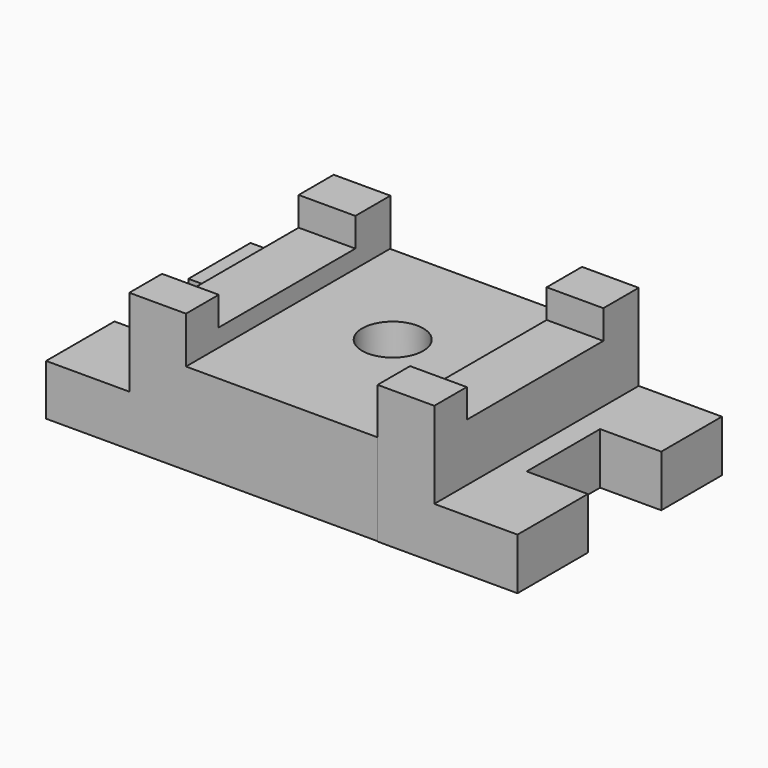
from build123d import *

# Parameters (mm, degrees)
F0_W      = 53.3400028944
F0_H      = 70.8285234869
F1_DEPTH  = 25.4
F2_R      = 8.4728642263
F3_DEPTH  = 41.402
F4_W      = 70.9742624313
F4_H      = 38.3290164173
F5_DEPTH  = 15.748
F6_W      = 70.9742605686
F6_H      = 38.3290164173
F7_DEPTH  = 15.748
F8_W      = 70.9742624313
F8_H      = 14.1365574673
F9_DEPTH  = 23.114
F10_W     = 70.9742605686
F10_H     = 14.3422139809
F11_DEPTH = 23.114
F12_W     = 16.9909100647
F12_H     = 25.4818284884
F13_DEPTH = 25.4
F14_W     = 15.8581200655
F14_H     = 25.6498372182
F15_DEPTH = 25.4
F16_W     = 47.4318256602
F16_H     = 7.9976115376
F17_DEPTH = 25.4
F18_W     = 47.4318237975
F18_H     = 7.9976115376
F19_DEPTH = 25.4


with BuildPart() as f1:
    # F0 (on Top) → F1 (new body)
    with BuildSketch(Plane.XY):
        with Locations((-5.1008202136, -9.9101644009)):
            Rectangle(F0_W, F0_H)
    extrude(amount=F1_DEPTH)

    # F2 (on face) → F3 (cut)
    with BuildSketch(Plane.XY.offset(25.4)):
        with Locations((-4.66360664, -7.4326233007)):
            Circle(F2_R)
    extrude(amount=-F3_DEPTH, mode=Mode.SUBTRACT)

    # F4 (on face) → F5 (join)
    with BuildSketch(Plane(origin=(-31.7708216608, 0, 0), x_dir=(0, -1, 0), z_dir=(-1, 0, 0))):
        with Locations((9.8372949287, 19.1645082086)):
            Rectangle(F4_W, F4_H)
    extrude(amount=F5_DEPTH)

    # F6 (on face) → F7 (join)
    with BuildSketch(Plane.YZ.offset(21.5691812336)):
        with Locations((-9.9830329418, 19.1645082086)):
            Rectangle(F6_W, F6_H)
    extrude(amount=F7_DEPTH)

    # F8 (on face) → F9 (join)
    with BuildSketch(Plane(origin=(-47.5188216608, 0, 0), x_dir=(0, -1, 0), z_dir=(-1, 0, 0))):
        with Locations((9.8372949287, 7.0682787336)):
            Rectangle(F8_W, F8_H)
    extrude(amount=F9_DEPTH)

    # F10 (on face) → F11 (join)
    with BuildSketch(Plane.YZ.offset(37.3171812336)):
        with Locations((-9.9830329418, 7.1711069904)):
            Rectangle(F10_W, F10_H)
    extrude(amount=F11_DEPTH)

    # F12 (on face) → F13 (cut)
    with BuildSketch(Plane.XY.offset(14.3422139809)):
        with Locations((51.9357262013, -8.3012259565)):
            Rectangle(F12_W, F12_H)
    extrude(amount=-F13_DEPTH, mode=Mode.SUBTRACT)

    # F14 (on face) → F15 (cut)
    with BuildSketch(Plane.XY.offset(14.1365574673)):
        with Locations((-62.703761628, -8.7442626245)):
            Rectangle(F14_W, F14_H)
    extrude(amount=-F15_DEPTH, mode=Mode.SUBTRACT)

    # F16 (on face) → F17 (cut)
    with BuildSketch(Plane(origin=(21.5691812336, 0, 0), x_dir=(0, -1, 0), z_dir=(-1, 0, 0))):
        with Locations((10.4849305935, 34.3302106485)):
            Rectangle(F16_W, F16_H)
    extrude(amount=-F17_DEPTH, mode=Mode.SUBTRACT)

    # F18 (on face) → F19 (cut)
    with BuildSketch(Plane.YZ.offset(-31.7708216608)):
        with Locations((-10.2352886461, 34.3302106485)):
            Rectangle(F18_W, F18_H)
    extrude(amount=-F19_DEPTH, mode=Mode.SUBTRACT)


solid = f1.part
